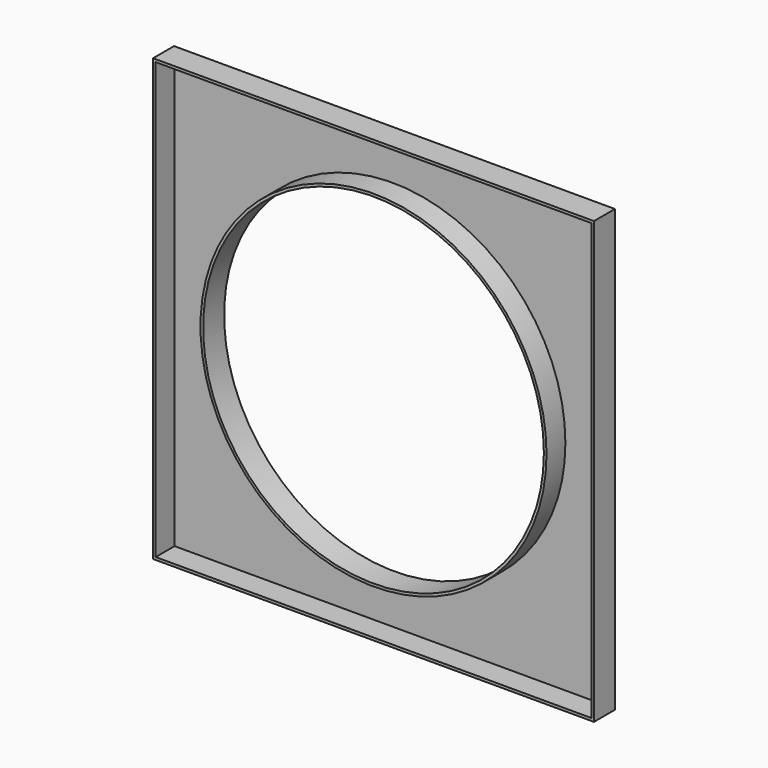
from build123d import *

# Parameters (mm, degrees)
F0_W     = 420
F0_H     = 420
F0_R     = 162.300497
F1_DEPTH = 25
F2_DEPTH = 25
F3_T     = -2.5


with BuildPart() as f1:
    # F0 (on Front) → F1 (new body)
    with BuildSketch(Plane.XZ):
        Rectangle(F0_W, F0_H)
        Circle(F0_R, mode=Mode.SUBTRACT)
    extrude(amount=F1_DEPTH)

    # F0 (on Front) → F2 (join)
    with BuildSketch(Plane.XZ):
        Rectangle(F0_W, F0_H)
        Circle(F0_R, mode=Mode.SUBTRACT)
    extrude(amount=F2_DEPTH)

    # F3
    f3_openings = [f1.faces().sort_by_distance(p)[0] for p in [
        (-204.060303, -25, 0),
    ]]
    offset(amount=F3_T, openings=f3_openings)


solid = f1.part
